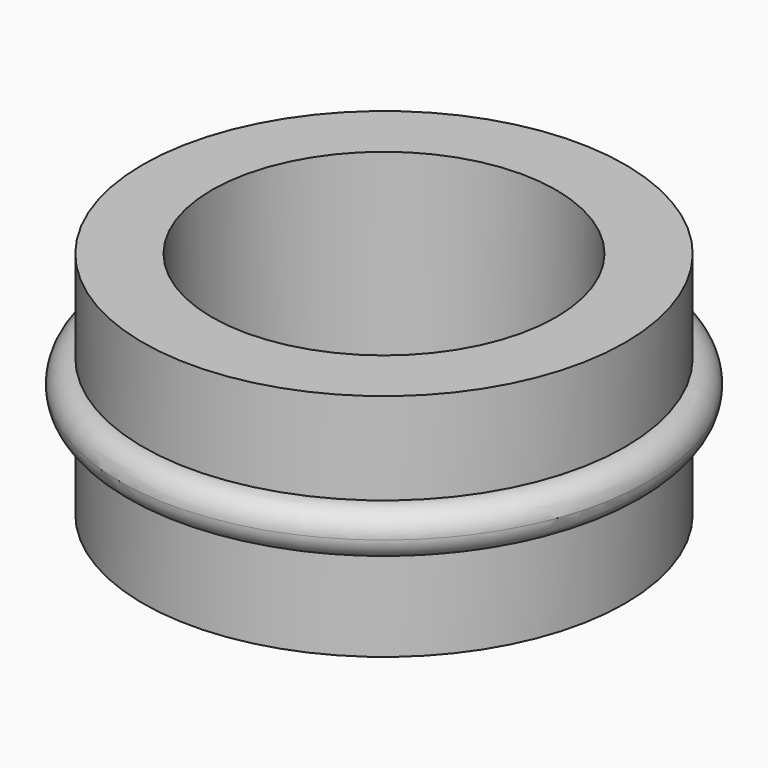
from build123d import *


with BuildPart() as f1:
    # F0 (on Front) → F1 (revolve)
    with BuildSketch(Plane.XZ):
        with BuildLine():
            Line((37.5, 50), (37.5, 0))
            Line((37.5, 0), (52.5, 0))
            Line((52.5, 0), (52.5, 20))
            ThreePointArc((52.5, 20), (47.5, 25), (52.5, 30))
            Line((52.5, 30), (52.5, 50))
            Line((52.5, 50), (37.5, 50))
        make_face()
        with BuildLine():
            ThreePointArc((52.5, 30), (47.5, 25), (52.5, 20))
            Line((52.5, 20), (52.5, 30))
        make_face()
        with BuildLine():
            Line((52.5, 30), (52.5, 20))
            ThreePointArc((52.5, 20), (56.0355339059, 21.4644660941), (57.5, 25))
            ThreePointArc((57.5, 25), (56.0355339059, 28.5355339059), (52.5, 30))
        make_face()
    revolve(axis=Axis((0, 0, 25), (0, 0, 1)))


solid = f1.part
